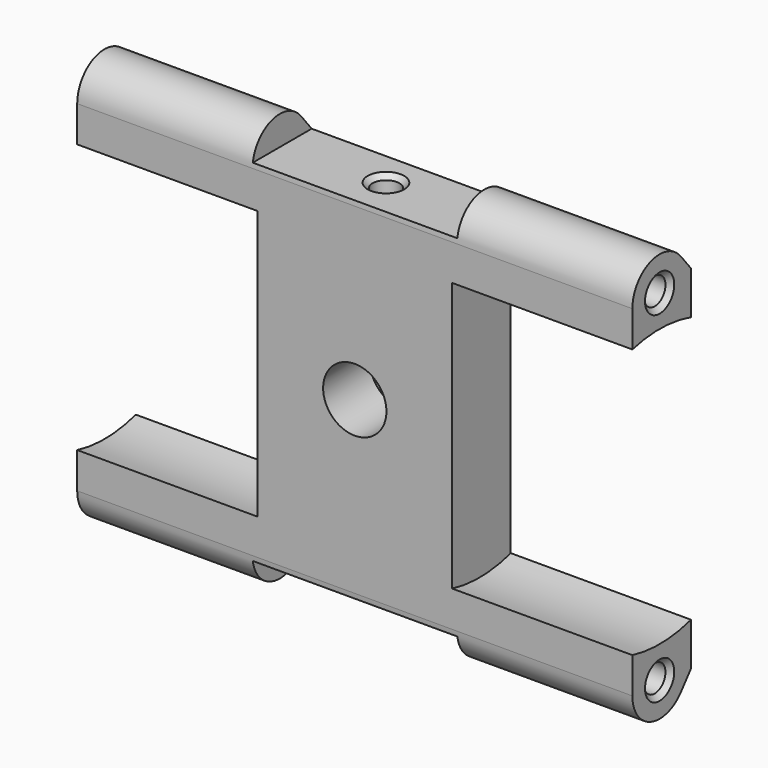
from build123d import *

# Parameters (mm, degrees)
PAD_DEPTH       = 28.5
SKETCH001_R     = 14.25
POCKET_DEPTH    = 18.5
SKETCH002_R     = 1.375
POCKET001_DEPTH = 12
SKETCH003_W     = 4
SKETCH003_H     = 10.5
POCKET002_DEPTH = 8
SKETCH004_R     = 1.75
POCKET003_DEPTH = 8
SKETCH005_R     = 3.25
POCKET004_DEPTH = 6
SKETCH006_R     = 1.375
POCKET005_DEPTH = 10
SKETCH007_R     = 1.375
POCKET006_DEPTH = 10
CHAMFER_SIZE    = 0.5
CHAMFER001_SIZE = 0.5


with BuildPart() as recess_pocket:
    # Sketch → Pad (new body)
    with BuildSketch(Plane.YZ):
        with BuildLine():
            ThreePointArc((2.722222, 19.699888), (-1.166667, 20.799832), (-3.5, 17.5))
            Line((-3.5, 17.5), (-3.5, -17.5))
            ThreePointArc((-3.5, -17.5), (-1.166657, -20.799835), (2.722235, -19.699872))
            Line((2.722235, -19.699872), (4.5, -17.5))
            Line((4.5, 17.5), (4.5, -17.5))
            Line((4.5, 17.5), (2.722222, 19.699888))
        make_face()
    extrude(amount=PAD_DEPTH)

    # Sketch001 → Pocket (cut)
    with BuildSketch(Plane.YZ.offset(28.5)):
        Circle(SKETCH001_R)
    extrude(amount=-POCKET_DEPTH, mode=Mode.SUBTRACT)

    # Sketch002 → Pocket001 (cut)
    with BuildSketch(Plane.YZ.offset(28.5)):
        with Locations((0, -17.5)):
            Circle(SKETCH002_R)
        with Locations((0, 17.5)):
            Circle(SKETCH002_R)
    extrude(amount=-POCKET001_DEPTH, mode=Mode.SUBTRACT)

    # Sketch003 → Pocket002 (cut)
    with BuildSketch(Plane(origin=(0, -3.5, 0), x_dir=(0, 0, -1), z_dir=(0, -1, 0))):
        with Locations((-20, 5.25)):
            Rectangle(SKETCH003_W, SKETCH003_H)
        with Locations((20, 5.25)):
            Rectangle(SKETCH003_W, SKETCH003_H)
    extrude(amount=-POCKET002_DEPTH, mode=Mode.SUBTRACT)


with BuildPart() as printing_chamfer:
    # Part__Mirroring: instance of recess-pocket
    add(recess_pocket.part.mirror(Plane(origin=(0, 0, 0), x_dir=(0, -1, 0), z_dir=(1, 0, 0))))

    # Fusion: union recess-pocket
    add(recess_pocket.part)

    # Sketch004 → Pocket003 (cut)
    with BuildSketch(Plane.XZ.offset(3.5)):
        Circle(SKETCH004_R)
    extrude(amount=-POCKET003_DEPTH, mode=Mode.SUBTRACT)

    # Sketch005 → Pocket004 (cut)
    with BuildSketch(Plane.XZ.offset(3.5)):
        Circle(SKETCH005_R)
    extrude(amount=-POCKET004_DEPTH, mode=Mode.SUBTRACT)

    # Sketch006 → Pocket005 (cut)
    with BuildSketch(Plane.XY.offset(18)):
        with Locations((0, 0.5)):
            Circle(SKETCH006_R)
    extrude(amount=-POCKET005_DEPTH, mode=Mode.SUBTRACT)

    # Sketch007 → Pocket006 (cut)
    with BuildSketch(Plane(origin=(0, 0, -18), x_dir=(1, 0, 0), z_dir=(0, 0, -1))):
        with Locations((0, -0.5)):
            Circle(SKETCH007_R)
    extrude(amount=-POCKET006_DEPTH, mode=Mode.SUBTRACT)

    # Chamfer
    chamfer_edges = [printing_chamfer.edges().sort_by_distance(p)[0] for p in [
        (28.5, -1.375, -17.5),
        (-28.5, -1.375, -17.5),
        (-28.5, -1.375, 17.5),
        (28.5, -1.375, 17.5),
        (-1.375, 0.5, -18),
        (-1.375, 0.5, 18),
    ]]
    chamfer(chamfer_edges, length=CHAMFER_SIZE)

    # Chamfer001
    chamfer001_edges = [printing_chamfer.edges().sort_by_distance(p)[0] for p in [
        (28.5, 4.5, -15.510409),
        (19.25, 4.5, -13.520817),
        (-10, 4.5, 0),
        (-19.25, 4.5, -13.520817),
        (-19.25, 4.5, 13.520817),
        (-28.5, 4.5, -15.510409),
        (-28.5, 4.5, 15.510409),
        (28.5, 4.5, 15.510409),
        (19.25, 4.5, 13.520817),
        (10, 4.5, 0),
        (-1.75, 4.5, 0),
    ]]
    chamfer(chamfer001_edges, length=CHAMFER001_SIZE)


solid = printing_chamfer.part
